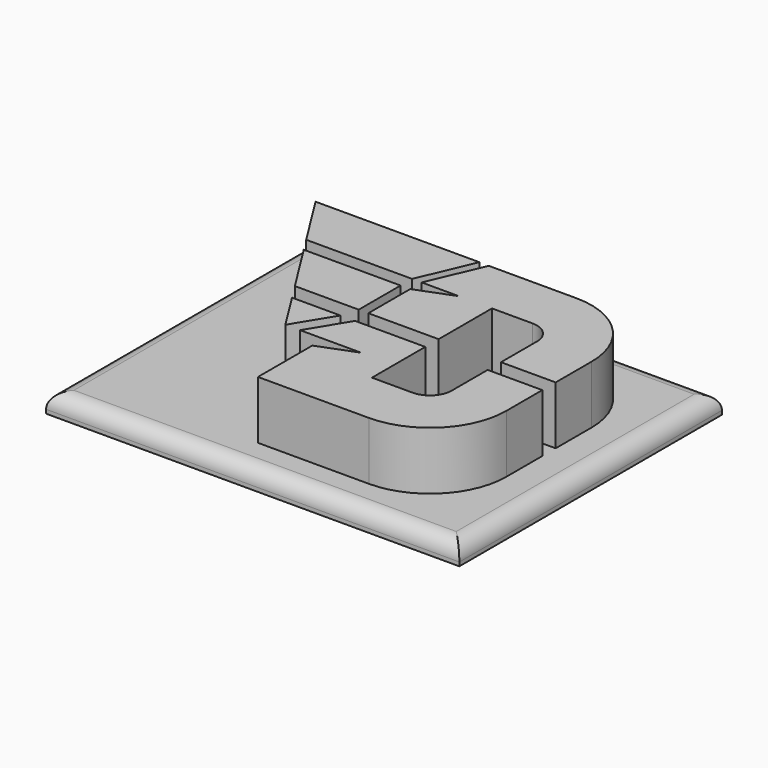
from build123d import *

# Parameters (mm, degrees)
F1_DEPTH = 25.4
F2_W     = 135.679178
F2_H     = 107.758593
F3_DEPTH = 6.35
F4_R     = 5.08


with BuildPart() as f1:
    # F0 (on Top) → F1 (new body)
    with BuildSketch(Plane.XY):
        Polygon((-47.167739, 19.908149), (-36.350581, 2.736191), (-15.379281, 2.736191), (-15.379281, 19.908149), align=None)
        with BuildLine():
            Line((24.179354, 42.568505), (-4.554338, 42.568505))
            Line((-4.554338, 42.568505), (-12.222076, 24.625719))
            Line((-12.222076, 24.625719), (0, 24.625719))
            Line((0, 24.625719), (-12.222076, 19.908149))
            Line((-12.222076, 19.908149), (-12.222076, 2.736191))
            Line((-12.222076, 2.736191), (10.850413, 2.736191))
            Line((10.850413, 2.736191), (10.850413, 24.625719))
            Line((10.850413, 24.625719), (24.179354, 24.625719))
            ThreePointArc((24.179354, 24.625719), (29.190455, 22.573685), (31.323036, 17.596329))
            Line((31.323036, 17.596329), (31.323036, 2.736191))
            Line((31.323036, 2.736191), (49.266752, 2.736191))
            Line((49.266752, 2.736191), (49.266752, 17.481107))
            ThreePointArc((49.266752, 17.481107), (41.918823, 35.220576), (24.179354, 42.568505))
        make_face()
        with BuildLine():
            Line((10.850413, -2.736191), (-12.222076, -2.736191))
            Line((-12.222076, -2.736191), (-20.012174, -15.547398))
            Line((-20.012174, -15.547398), (0, -15.547398))
            Line((0, -15.547398), (-12.222076, -20.264968))
            Line((-12.222076, -20.264968), (-12.222076, -42.568505))
            Line((-12.222076, -42.568505), (-4.554338, -42.568505))
            Line((-4.554338, -42.568505), (24.179354, -42.568505))
            ThreePointArc((24.179354, -42.568505), (41.918823, -35.220576), (49.266752, -17.481107))
            Line((49.266752, -17.481107), (49.266752, -2.736191))
            Line((49.266752, -2.736191), (31.323036, -2.736191))
            Line((31.323036, -2.736191), (31.323036, -17.596329))
            ThreePointArc((31.323036, -17.596329), (29.190455, -22.573685), (24.179354, -24.625719))
            Line((24.179354, -24.625719), (10.850413, -24.625719))
            Line((10.850413, -24.625719), (10.850413, -2.736191))
        make_face()
        Polygon((-50.139485, 24.625719), (-15.379281, 24.625719), (-7.680428, 42.641316), (-61.488077, 42.641316), align=None)
        Polygon((-32.903355, -2.736191), (-24.833172, -15.547398), (-17.043074, -2.736191), align=None)
    extrude(amount=F1_DEPTH)


with BuildPart() as f3:
    # F2 (on Top) → F3 (new body)
    with BuildSketch(Plane.XY):
        with Locations((-4.533257, -0.451007)):
            Rectangle(F2_W, F2_H)
    extrude(amount=F3_DEPTH)

    # F4
    f4_edges = [f3.edges().sort_by_distance(p)[0] for p in [
        (-4.533257, 53.428289, 6.35),
        (-72.372846, -0.451008, 6.35),
        (63.306332, -0.451008, 6.35),
        (-4.533257, -54.330304, 6.35),
    ]]
    fillet(f4_edges, radius=F4_R)


solid = Compound([f1.part, f3.part])
